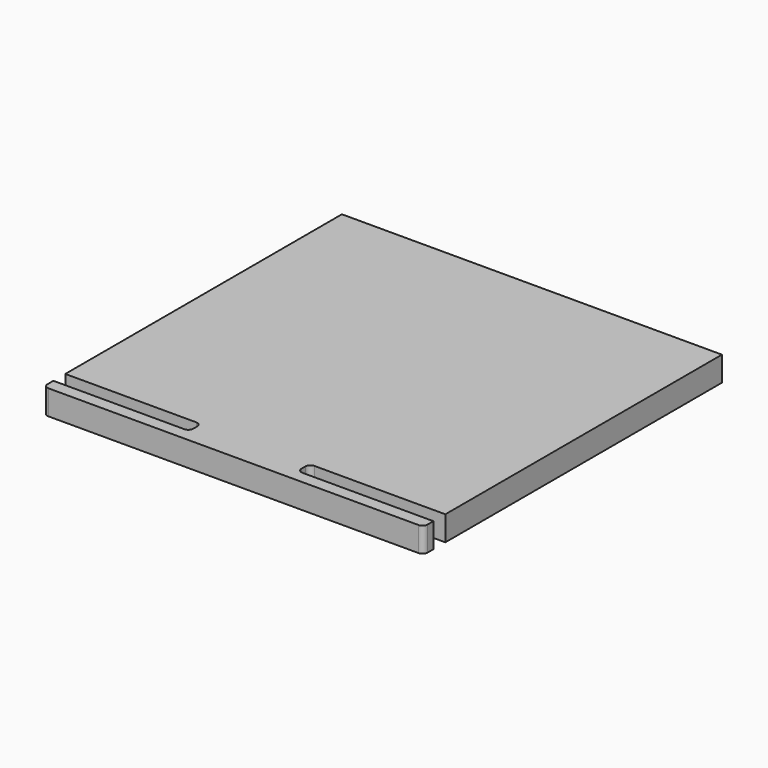
from build123d import *

# Parameters (mm, degrees)
F0_W     = 153.88
F0_H     = 134.5
F1_DEPTH = 5


with BuildPart() as f1:
    # F0 (on Top) → F1 (new body, symmetric)
    with BuildSketch(Plane.XY):
        with Locations((0, -40.25)):
            Rectangle(F0_W, F0_H)
        with BuildLine():
            Line((76.94, -107.5), (-76.94, -107.5))
            Line((-76.94, -107.5), (-76.94, -113.004705))
            Line((-76.94, -113.004705), (-23.9, -113.004705))
            ThreePointArc((-23.9, -113.004705), (-22.485786, -113.590492), (-21.9, -115.004705))
            Line((-21.9, -115.004705), (-21.9, -117.030299))
            ThreePointArc((-21.9, -117.030299), (-22.485786, -118.444513), (-23.9, -119.030299))
            Line((-23.9, -119.030299), (-76.94, -119.030299))
            Line((-76.94, -119.030299), (-76.94, -122.030274))
            ThreePointArc((-76.94, -122.030274), (-76.354205, -123.444497), (-74.939975, -124.030274))
            Line((-74.939975, -124.030274), (74.940025, -124.028395))
            ThreePointArc((74.940025, -124.028395), (76.354222, -123.4426), (76.94, -122.028395))
            Line((76.94, -122.028395), (76.94, -119.02837))
            Line((76.94, -119.02837), (23.9, -119.02837))
            ThreePointArc((23.9, -119.02837), (22.485786, -118.442584), (21.9, -117.02837))
            Line((21.9, -117.02837), (21.9, -114.994398))
            ThreePointArc((21.9, -114.994398), (22.485786, -113.580185), (23.9, -112.994398))
            Line((23.9, -112.994398), (76.94, -112.994398))
            Line((76.94, -112.994398), (76.94, -107.5))
        make_face()
    extrude(amount=F1_DEPTH, both=True)


solid = f1.part
